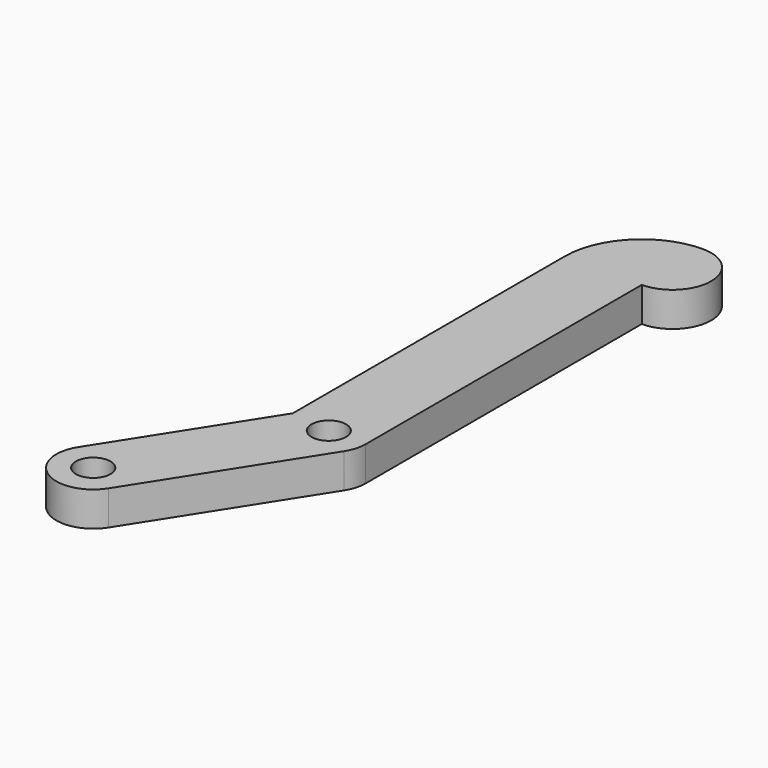
from build123d import *

# Parameters (mm, degrees)
SKETCH_R  = 1.5
PAD_DEPTH = 3


with BuildPart() as part:
    # Sketch → Pad (new body)
    with BuildSketch(Plane.XY):
        with BuildLine():
            ThreePointArc((-11.777104, -12.530641), (-10.79761, -16.948853), (-6.379399, -15.969359))
            Line((-6.379399, -15.969359), (2.698853, -1.719359))
            ThreePointArc((2.698853, -1.719359), (3.07216, -0.895453), (3.2, 0))
            Line((3.2, 30), (3.2, 0))
            ThreePointArc((3.2, 30), (6.55, 33.35), (3.2, 36.7))
            ThreePointArc((3.2, 36.7), (-1.537615, 34.737615), (-3.5, 30))
            Line((-3.5, 0.461809), (-3.5, 30))
            Line((-11.777104, -12.530641), (-3.5, 0.461809))
        make_face()
        with Locations((-9.078251, -14.25)):
            Circle(SKETCH_R, mode=Mode.SUBTRACT)
        Circle(SKETCH_R, mode=Mode.SUBTRACT)
    extrude(amount=PAD_DEPTH)


solid = part.part
